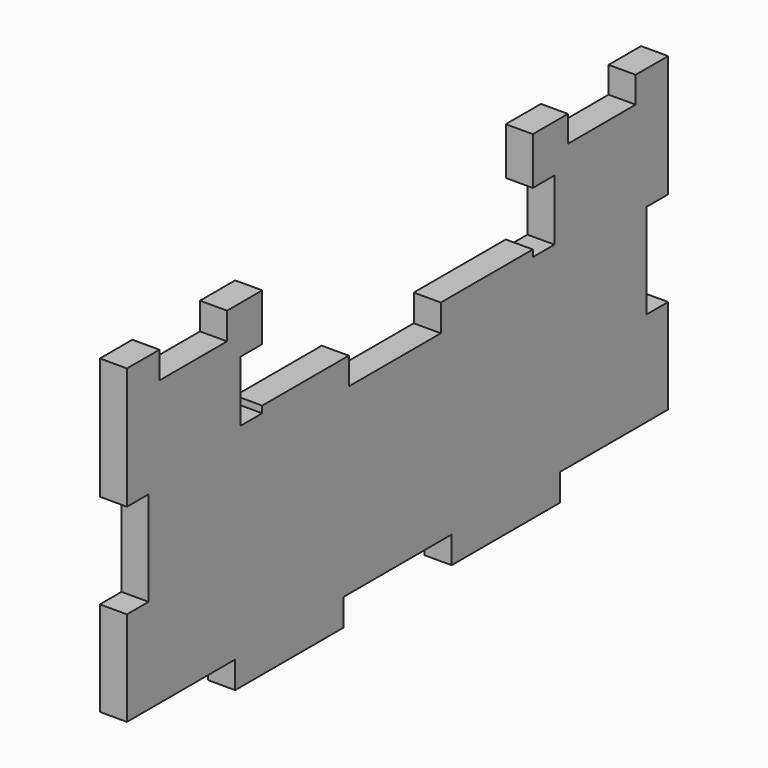
from build123d import *

# Parameters (mm, degrees)
F1_DEPTH = 4
F2_W     = 12.5
F2_H     = 4
F3_DEPTH = 4


with BuildPart() as f1:
    # F0 (on Right) → F1 (new body)
    with BuildSketch(Plane.YZ):
        Polygon((-40, 0), (-20, 0), (-20, 4), (0, 4), (0, 18), (-4, 18), (-4, 32), (0, 32), (0, 50), (-25, 50), (-25, 43), (-21, 43), (-21, 34), (-25, 34), (-25, 35), (-42, 35), (-42, 31), (-59, 31), (-59, 35), (-75, 35), (-75, 34), (-79, 34), (-79, 43), (-75, 43), (-75, 50), (-100, 50), (-100, 32), (-96, 32), (-96, 18), (-100, 18), (-100, 4), (-80, 4), (-80, 0), (-60, 0), (-60, 4), (-40, 4), align=None)
    extrude(amount=F1_DEPTH)

    # F2 (on Right) → F3 (cut)
    with BuildSketch(Plane.YZ):
        with Locations((-87.75, 48)):
            Rectangle(F2_W, F2_H)
        with Locations((-12.25, 48.1161735952)):
            Rectangle(F2_W, F2_H)
    extrude(amount=F3_DEPTH, mode=Mode.SUBTRACT)


solid = f1.part
